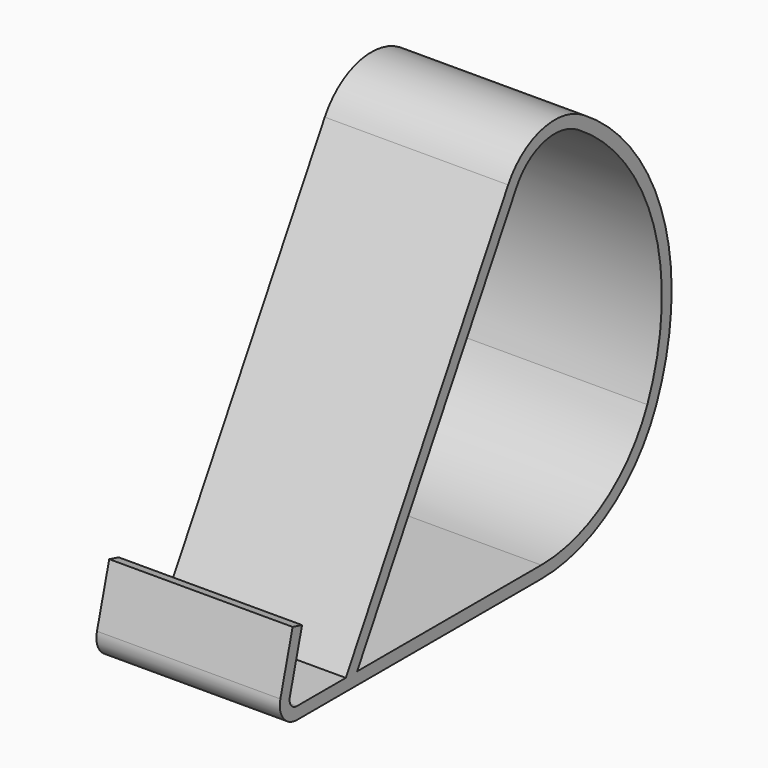
from build123d import *

# Parameters (mm, degrees)
F1_DEPTH = 30


with BuildPart() as f1:
    # F0 (on Right) → F1 (new body, symmetric)
    with BuildSketch(Plane.YZ):
        with BuildLine():
            ThreePointArc((-76.238519, -57.397258), (-78.618579, -56.223542), (-79.136297, -53.620801))
            Line((-79.136297, -53.620801), (-74.124065, -34.914896))
            Line((-74.124065, -34.914896), (-77.987768, -33.87962))
            Line((-77.987768, -33.87962), (-83, -52.585524))
            ThreePointArc((-83, -52.585524), (-81.791993, -58.658588), (-76.238519, -61.397258))
            Line((-76.238519, -61.397258), (23.690404, -61.397258))
            ThreePointArc((23.690404, -61.397258), (51.859532, -52.954337), (70.740883, -30.409332))
            ThreePointArc((70.740883, -30.409332), (73.50453, 22.936522), (40.893049, 65.243839))
            ThreePointArc((40.893049, 65.243839), (23.901637, 67.952883), (10.156762, 57.602742))
            Line((10.156762, 57.602742), (-56.238519, -57.397258))
            Line((-56.238519, -57.397258), (-76.238519, -57.397258))
        make_face()
        with BuildLine():
            ThreePointArc((13.620863, 55.602742), (24.86667, 64.071039), (38.768735, 61.854549))
            ThreePointArc((38.768735, 61.854549), (69.686113, 21.745014), (67.066032, -28.829626))
            ThreePointArc((67.066032, -28.829626), (49.659399, -49.613767), (23.690404, -57.397258))
            Line((23.690404, -57.397258), (-51.619717, -57.397258))
            Line((-51.619717, -57.397258), (13.620863, 55.602742))
        make_face(mode=Mode.SUBTRACT)
    extrude(amount=F1_DEPTH, both=True)


solid = f1.part
